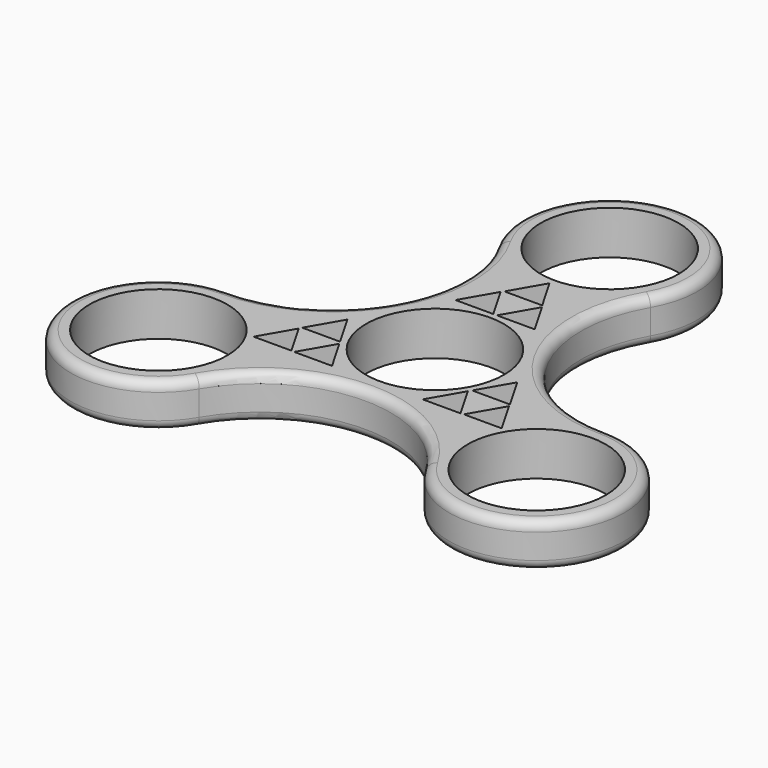
from build123d import *

# Parameters (mm, degrees)
F0_R     = 11.05
F1_DEPTH = 7
F2_R     = 1.5


with BuildPart() as f1:
    # F0 (on Top) → F1 (new body)
    with BuildSketch(Plane.XY):
        with BuildLine():
            ThreePointArc((-12.167657, 27.975), (-12.167657, 7.025), (-30.310889, -3.45))
            ThreePointArc((-30.310889, -3.45), (-42.478546, -24.525), (-18.143232, -24.525))
            ThreePointArc((-18.143232, -24.525), (0, -14.05), (18.143232, -24.525))
            ThreePointArc((18.143232, -24.525), (42.478546, -24.525), (30.310889, -3.45))
            ThreePointArc((30.310889, -3.45), (12.167657, 7.025), (12.167657, 27.975))
            ThreePointArc((12.167657, 27.975), (0, 49.05), (-12.167657, 27.975))
        make_face()
        with Locations((-30.310889, -17.5)):
            Circle(F0_R, mode=Mode.SUBTRACT)
        Polygon((-16.844194, -6.225), (-13.813105, -11.475), (-19.875283, -11.475), align=None, mode=Mode.SUBTRACT)
        Polygon((-13.611033, -0.525), (-10.579944, -5.775), (-16.642122, -5.775), align=None, mode=Mode.SUBTRACT)
        Polygon((-7.26018, -11.525), (-13.322357, -11.525), (-10.291269, -6.275), align=None, mode=Mode.SUBTRACT)
        with Locations((30.310889, -17.5)):
            Circle(F0_R, mode=Mode.SUBTRACT)
        Polygon((7.26018, -11.525), (10.291269, -6.275), (13.322357, -11.525), align=None, mode=Mode.SUBTRACT)
        Polygon((13.813105, -11.475), (16.844194, -6.225), (19.875283, -11.475), align=None, mode=Mode.SUBTRACT)
        Polygon((13.611033, -0.525), (16.642122, -5.775), (10.579944, -5.775), align=None, mode=Mode.SUBTRACT)
        Circle(F0_R, mode=Mode.SUBTRACT)
        Polygon((-0.288675, 12.05), (-6.350853, 12.05), (-3.319764, 17.3), align=None, mode=Mode.SUBTRACT)
        Polygon((3.319764, 17.3), (6.350853, 12.05), (0.288675, 12.05), align=None, mode=Mode.SUBTRACT)
        Polygon((-3.031089, 17.7), (0, 22.95), (3.031089, 17.7), align=None, mode=Mode.SUBTRACT)
        with Locations((0, 35)):
            Circle(F0_R, mode=Mode.SUBTRACT)
    extrude(amount=F1_DEPTH)

    # F2
    f2_edges = [f1.edges().sort_by_distance(p)[0] for p in [
        (0, -14.05, 7),
        (0, -14.05, 0),
    ]]
    fillet(f2_edges, radius=F2_R)


solid = f1.part
